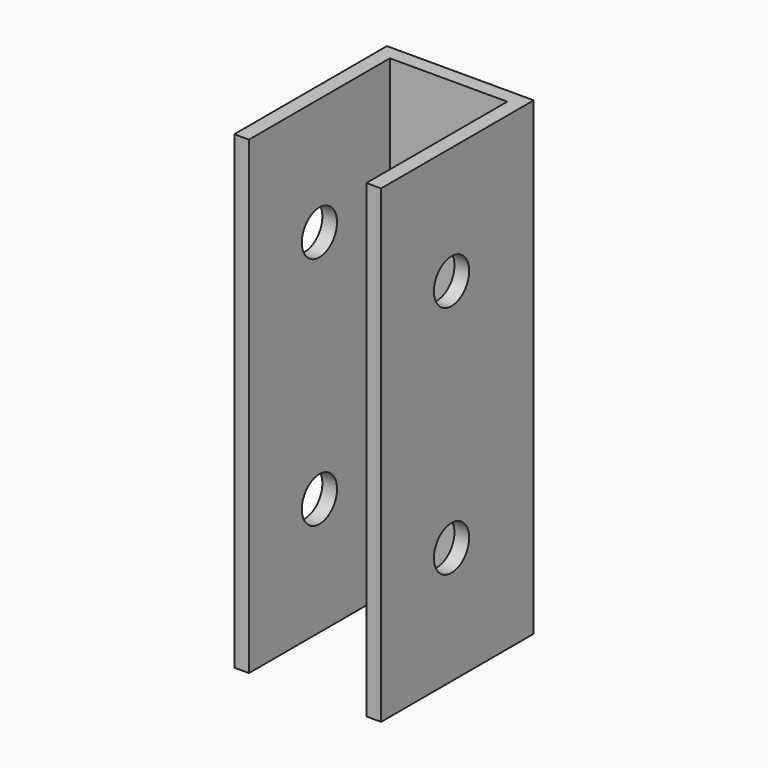
from build123d import *

# Parameters (mm, degrees)
F0_W     = 152.4
F0_H     = 406.4
F0_R     = 19.05
F1_DEPTH = 12.7
F2_W     = 114.3
F2_H     = 406.4
F3_DEPTH = 12.7
F5_W     = 165.1
F5_H     = 406.4
F5_R     = 19.05
F6_DEPTH = 12.7


with BuildPart() as f1:
    # F0 (on Right) → F1 (new body)
    with BuildSketch(Plane.YZ):
        Rectangle(F0_W, F0_H)
        with Locations((0, -101.6)):
            Circle(F0_R, mode=Mode.SUBTRACT)
        with Locations((0, 101.6)):
            Circle(F0_R, mode=Mode.SUBTRACT)
    extrude(amount=F1_DEPTH)

    # F2 (on face) → F3 (join)
    with BuildSketch(Plane(origin=(0, 76.2, 0), x_dir=(-1, 0, 0), z_dir=(0, 1, 0))):
        with Locations((-57.15, 0)):
            Rectangle(F2_W, F2_H)
    extrude(amount=F3_DEPTH)

    # F5 (on face) → F6 (join)
    with BuildSketch(Plane.YZ.offset(114.3)):
        with Locations((6.35, 0)):
            Rectangle(F5_W, F5_H)
        with Locations((0, -101.6)):
            Circle(F5_R, mode=Mode.SUBTRACT)
        with Locations((0, 101.6)):
            Circle(F5_R, mode=Mode.SUBTRACT)
    extrude(amount=F6_DEPTH)


solid = f1.part
